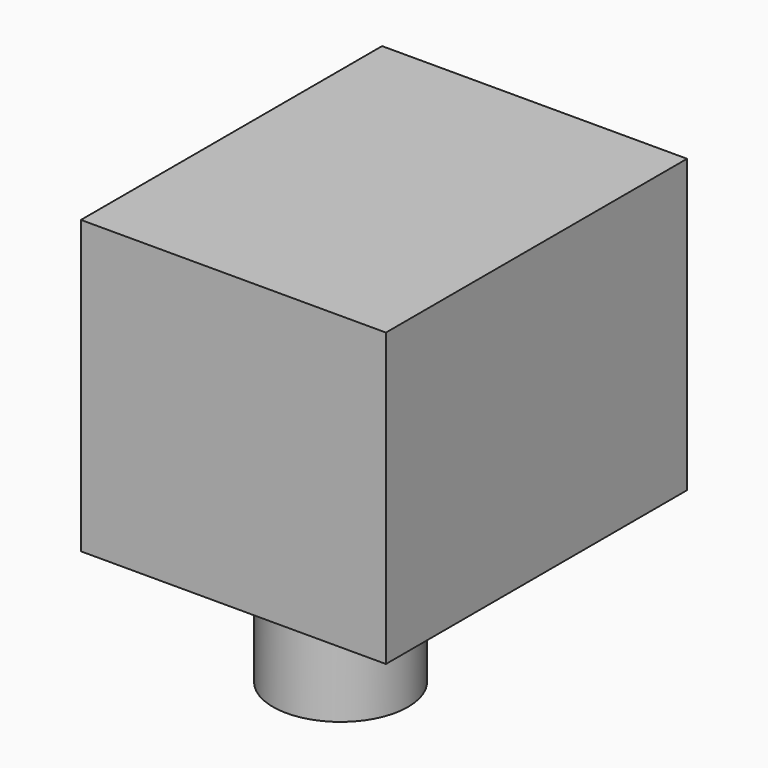
from build123d import *

# Parameters (mm, degrees)
F0_W     = 66.141769
F0_H     = 51.272144
F1_DEPTH = 53.594
F2_R     = 11.874226
F3_DEPTH = 81.026


with BuildPart() as f1:
    # F0 (on Right) → F1 (new body)
    with BuildSketch(Plane.YZ):
        with Locations((-33.070884, 31.703164)):
            Rectangle(F0_W, F0_H)
    extrude(amount=F1_DEPTH)

    # F2 (on face) → F3 (join)
    with BuildSketch(Plane.XY.offset(57.339236)):
        with Locations((16.360093, -29.572813)):
            Circle(F2_R)
    extrude(amount=-F3_DEPTH)


solid = f1.part
